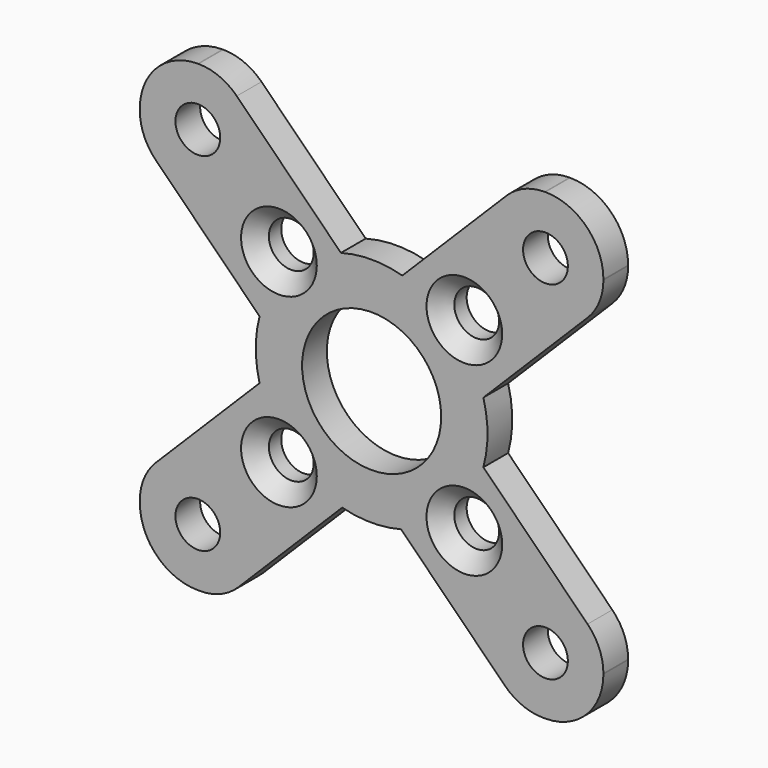
from build123d import *

# Parameters (mm, degrees)
CYLINDER006_R              = 1.45
CYLINDER006_DEPTH          = 10
CYLINDER007_R              = 1.45
CYLINDER007_DEPTH          = 10
CYLINDER008_R              = 1.45
CYLINDER008_DEPTH          = 10
CYLINDER009_R              = 1.45
CYLINDER009_DEPTH          = 10
CYLINDER005_R              = 1.45
CYLINDER005_DEPTH          = 10
CYLINDER002_R              = 1.45
CYLINDER002_DEPTH          = 10
CYLINDER003_R              = 1.45
CYLINDER003_DEPTH          = 10
CYLINDER004_R              = 1.45
CYLINDER004_DEPTH          = 10
CYLINDER001_R              = 4.5
CYLINDER001_DEPTH          = 10
CYLINDER_R                 = 7.5
CYLINDER_DEPTH             = 15
BOX001_W                   = 20
BOX001_H                   = 20
BOX001_DEPTH               = 10
BOX001_PLACEMENT_ANGLE     = 45
BOX002_W                   = 20
BOX002_H                   = 20
BOX002_DEPTH               = 10
BOX002_PLACEMENT_ANGLE     = 45
CLONE_PLACEMENT_ANGLE      = 90
BOX_W                      = 30
BOX_H                      = 30
BOX_DEPTH                  = 2
FILLET_R                   = 3.75
FILLET001_R                = 3.5
CUT010_PLACEMENT_ANGLE     = 90
CHAMFER004_SIZE            = 1
CHAMFER004_PLACEMENT_ANGLE = 180


with BuildPart() as cylinder006:
    # Cylinder006 → Cylinder006 (new body)
    with BuildSketch(Plane(origin=(11.25, -11.25, 0), x_dir=(1, 0, 0), z_dir=(0, 0, 1))):
        Circle(CYLINDER006_R)
    extrude(amount=CYLINDER006_DEPTH)


with BuildPart() as cylinder007:
    # Cylinder007 → Cylinder007 (new body)
    with BuildSketch(Plane(origin=(11.25, 11.25, 0), x_dir=(1, 0, 0), z_dir=(0, 0, 1))):
        Circle(CYLINDER007_R)
    extrude(amount=CYLINDER007_DEPTH)


with BuildPart() as cylinder008:
    # Cylinder008 → Cylinder008 (new body)
    with BuildSketch(Plane(origin=(-11.25, -11.25, 0), x_dir=(1, 0, 0), z_dir=(0, 0, 1))):
        Circle(CYLINDER008_R)
    extrude(amount=CYLINDER008_DEPTH)


with BuildPart() as cylinder009:
    # Cylinder009 → Cylinder009 (new body)
    with BuildSketch(Plane(origin=(-11.25, 11.25, 0), x_dir=(1, 0, 0), z_dir=(0, 0, 1))):
        Circle(CYLINDER009_R)
    extrude(amount=CYLINDER009_DEPTH)


with BuildPart() as cylinder005:
    # Cylinder005 → Cylinder005 (new body)
    with BuildSketch(Plane(origin=(6, -6, 0), x_dir=(1, 0, 0), z_dir=(0, 0, 1))):
        Circle(CYLINDER005_R)
    extrude(amount=CYLINDER005_DEPTH)


with BuildPart() as cylinder002:
    # Cylinder002 → Cylinder002 (new body)
    with BuildSketch(Plane(origin=(6, 6, 0), x_dir=(1, 0, 0), z_dir=(0, 0, 1))):
        Circle(CYLINDER002_R)
    extrude(amount=CYLINDER002_DEPTH)


with BuildPart() as cylinder003:
    # Cylinder003 → Cylinder003 (new body)
    with BuildSketch(Plane(origin=(-6, 6, 0), x_dir=(1, 0, 0), z_dir=(0, 0, 1))):
        Circle(CYLINDER003_R)
    extrude(amount=CYLINDER003_DEPTH)


with BuildPart() as cylinder004:
    # Cylinder004 → Cylinder004 (new body)
    with BuildSketch(Plane(origin=(-6, -6, 0), x_dir=(1, 0, 0), z_dir=(0, 0, 1))):
        Circle(CYLINDER004_R)
    extrude(amount=CYLINDER004_DEPTH)


with BuildPart() as cylinder001:
    # Cylinder001 → Cylinder001 (new body)
    with BuildSketch(Plane.XY):
        Circle(CYLINDER001_R)
    extrude(amount=CYLINDER001_DEPTH)


with BuildPart() as cylinder:
    # Cylinder → Cylinder (new body)
    with BuildSketch(Plane.XY):
        Circle(CYLINDER_R)
    extrude(amount=CYLINDER_DEPTH)


with BuildPart() as cube001:
    # Box001 → Box001 (new body)
    with BuildSketch(Plane.XY):
        with Locations((10, 10)):
            Rectangle(BOX001_W, BOX001_H)
    extrude(amount=BOX001_DEPTH)


with BuildPart() as cube001_1:
    # Box001 placement: moved
    add(cube001.part.moved(Location((0, -33.53, 0))).rotate(Axis((0, -33.53, 0), (0, 0, 1)), BOX001_PLACEMENT_ANGLE))


with BuildPart() as cut:
    # Box002 → Box002 (new body)
    with BuildSketch(Plane.XY):
        with Locations((10, 10)):
            Rectangle(BOX002_W, BOX002_H)
    extrude(amount=BOX002_DEPTH)


with BuildPart() as cut_1:
    # Box002 placement: moved
    add(cut.part.moved(Location((0, 5.35, 0))).rotate(Axis((0, 5.35, 0), (0, 0, 1)), BOX002_PLACEMENT_ANGLE))

    # Fusion: union Cube001
    add(cube001_1.part)

    # Cut: cut Cylinder
    add(cylinder.part, mode=Mode.SUBTRACT)


with BuildPart() as cut001:
    # Clone base: copy of Cut
    add(cut_1.part)


with BuildPart() as cut001_1:
    # Clone placement: moved
    add(cut001.part.rotate(Axis((0, 0, 0), (0, 0, 1)), CLONE_PLACEMENT_ANGLE))


with BuildPart() as fusion001:
    # Fusion001 base: copy of Cut
    add(cut_1.part)

    # Fusion001: union Cut001
    add(cut001_1.part)


with BuildPart() as obj1:
    # Box → Box (new body)
    with BuildSketch(Plane(origin=(-15, -15, 0), x_dir=(1, 0, 0), z_dir=(0, 0, 1))):
        with Locations((15, 15)):
            Rectangle(BOX_W, BOX_H)
    extrude(amount=BOX_DEPTH)

    # Fillet
    fillet_edges = [obj1.edges().sort_by_distance(p)[0] for p in [
        (-15, -15, 1),
        (-15, 15, 1),
        (15, -15, 1),
        (15, 15, 1),
    ]]
    fillet(fillet_edges, radius=FILLET_R)

    # Cut001: cut Fusion001
    add(fusion001.part, mode=Mode.SUBTRACT)

    # Fillet001
    fillet001_edges = [obj1.edges().sort_by_distance(p)[0] for p in [
        (-15, -9.65, 1),
        (-15, 9.65, 1),
        (-9.65, 15, 1),
        (9.65, 15, 1),
        (15, 9.754271, 1),
        (15, -9.754271, 1),
        (9.754271, -15, 1),
        (-9.754271, -15, 1),
    ]]
    fillet(fillet001_edges, radius=FILLET001_R)

    # Cut002: cut Cylinder001
    add(cylinder001.part, mode=Mode.SUBTRACT)

    # Cut003: cut Cylinder004
    add(cylinder004.part, mode=Mode.SUBTRACT)

    # Cut004: cut Cylinder003
    add(cylinder003.part, mode=Mode.SUBTRACT)

    # Cut005: cut Cylinder002
    add(cylinder002.part, mode=Mode.SUBTRACT)

    # Cut006: cut Cylinder005
    add(cylinder005.part, mode=Mode.SUBTRACT)

    # Cut007: cut Cylinder009
    add(cylinder009.part, mode=Mode.SUBTRACT)

    # Cut008: cut Cylinder008
    add(cylinder008.part, mode=Mode.SUBTRACT)

    # Cut009: cut Cylinder007
    add(cylinder007.part, mode=Mode.SUBTRACT)

    # Cut010: cut Cylinder006
    add(cylinder006.part, mode=Mode.SUBTRACT)


with BuildPart() as obj1_1:
    # Cut010 placement: moved
    add(obj1.part.rotate(Axis((0, 0, 0), (1, 0, 0)), CUT010_PLACEMENT_ANGLE))

    # Chamfer004
    chamfer004_edges = [obj1_1.edges().sort_by_distance(p)[0] for p in [
        (4.55, 0, 6),
        (-7.45, 0, 6),
        (4.55, 0, -6),
        (-7.45, 0, -6),
    ]]
    chamfer(chamfer004_edges, length=CHAMFER004_SIZE)


with BuildPart() as obj1_2:
    # Chamfer004 placement: moved
    add(obj1_1.part.moved(Location((0, 20, 0))).rotate(Axis((0, 20, 0), (1, 0, 0)), CHAMFER004_PLACEMENT_ANGLE))


solid = obj1_2.part
